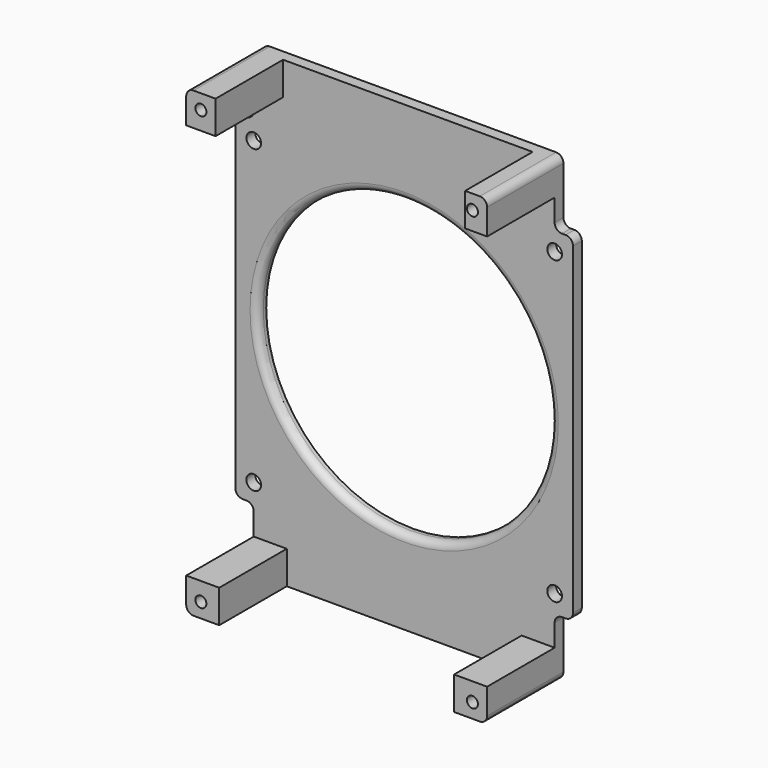
from build123d import *

# Parameters (mm, degrees)
F0_R     = 2
F0_R_2   = 40
F1_DEPTH = 3
F0_W     = 8
F0_H     = 9
F0_R_3   = 1.5
F0_W_2   = 6
F0_W_3   = 9
F2_DEPTH = 26
F3_R     = 2


with BuildPart() as f1:
    # F0 (on Front) → F1 (new body)
    with BuildSketch(Plane.XZ):
        Polygon((41, -46), (46, -46), (46, 46), (41, 46), (-41, 46), (-46, 46), (-46, -46), (-41, -46), align=None)
        with Locations((-41, -41)):
            Circle(F0_R, mode=Mode.SUBTRACT)
        with Locations((41, -41)):
            Circle(F0_R, mode=Mode.SUBTRACT)
        with Locations((-41, 41)):
            Circle(F0_R, mode=Mode.SUBTRACT)
        Circle(F0_R_2, mode=Mode.SUBTRACT)
        with Locations((41, 41)):
            Circle(F0_R, mode=Mode.SUBTRACT)
        Polygon((41, -54), (41, -46), (-41, -46), (-41, -54), (-32, -54), (-32, -63), (32, -63), (32, -54), align=None)
        Polygon((-41, 46), (41, 46), (41, 54), (35, 54), (35, 63), (-33, 63), (-33, 54), (-41, 54), align=None)
    extrude(amount=F1_DEPTH)

    # F0 (on Front) → F2 (join)
    with BuildSketch(Plane.XZ):
        with Locations((-37, 58.5)):
            Rectangle(F0_W, F0_H)
        with Locations((-37, 59)):
            Circle(F0_R_3, mode=Mode.SUBTRACT)
        with Locations((38, 58.5)):
            Rectangle(F0_W_2, F0_H)
        with Locations((37, 59)):
            Circle(F0_R_3, mode=Mode.SUBTRACT)
        with Locations((36.5, -58.5)):
            Rectangle(F0_W_3, F0_H)
        with Locations((37, -59)):
            Circle(F0_R_3, mode=Mode.SUBTRACT)
        with Locations((-36.5, -58.5)):
            Rectangle(F0_W_3, F0_H)
        with Locations((-37, -59)):
            Circle(F0_R_3, mode=Mode.SUBTRACT)
    extrude(amount=F2_DEPTH)

    # F3
    f3_edges = [f1.edges().sort_by_distance(p)[0] for p in [
        (-40, -3, 0),
        (-46, -1.5, -46),
        (-46, -1.5, 46),
        (46, -1.5, -46),
        (41, -1.5, -46),
        (-41, -1.5, -46),
        (-41, -13, -63),
        (41, -13, -63),
        (46, -1.5, 46),
        (41, -1.5, 46),
        (41, -13, 63),
        (-41, -13, 63),
        (-41, -1.5, 46),
    ]]
    fillet(f3_edges, radius=F3_R)


solid = f1.part
